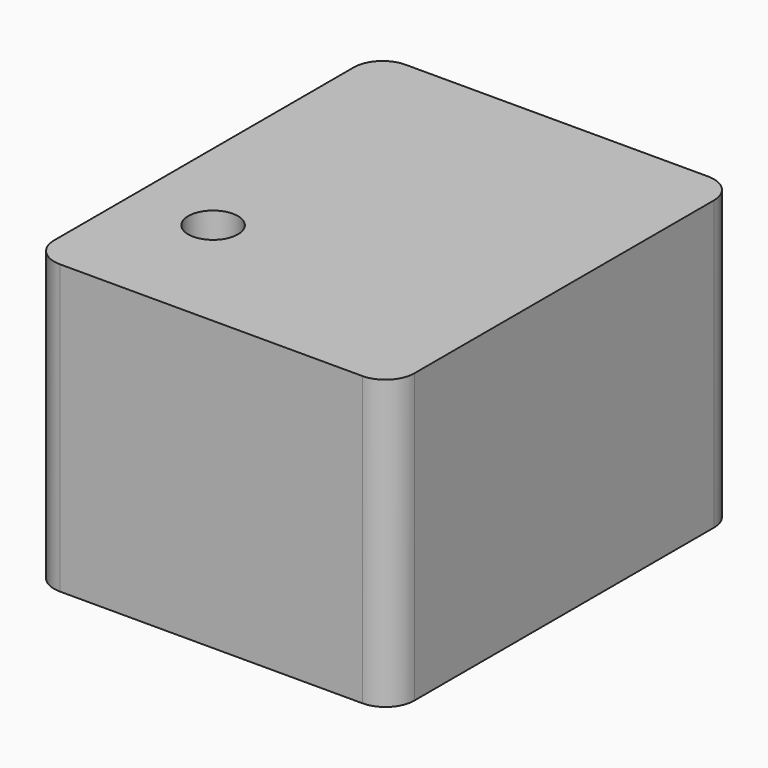
from build123d import *

# Parameters (mm, degrees)
F0_W           = 125
F0_H           = 100
F1_DEPTH       = 75
F1_DEPTH_BACK  = 75
F2_R           = 10
F4_D           = 11
F4_CBORE_D     = 17.25
F4_CBORE_DEPTH = 10


with BuildPart() as f1:
    # F0 (on Front) → F1 (new body, two sides)
    with BuildSketch(Plane.XZ) as f1_sk:
        Rectangle(F0_W, F0_H)
    extrude(amount=F1_DEPTH)
    extrude(f1_sk.sketch, amount=-F1_DEPTH_BACK)

    # F2
    f2_edges = [f1.edges().sort_by_distance(p)[0] for p in [
        (62.5, -75, 0),
        (62.5, 75, 0),
        (-62.5, 75, 0),
        (-62.5, -75, 0),
    ]]
    fillet(f2_edges, radius=F2_R)

    # F4 (through all)
    with Locations(Plane.XY.offset(50)):
        with Locations((-34.3994386494, -31.1498884112)):
            CounterBoreHole(F4_D / 2, F4_CBORE_D / 2, F4_CBORE_DEPTH)


solid = f1.part
